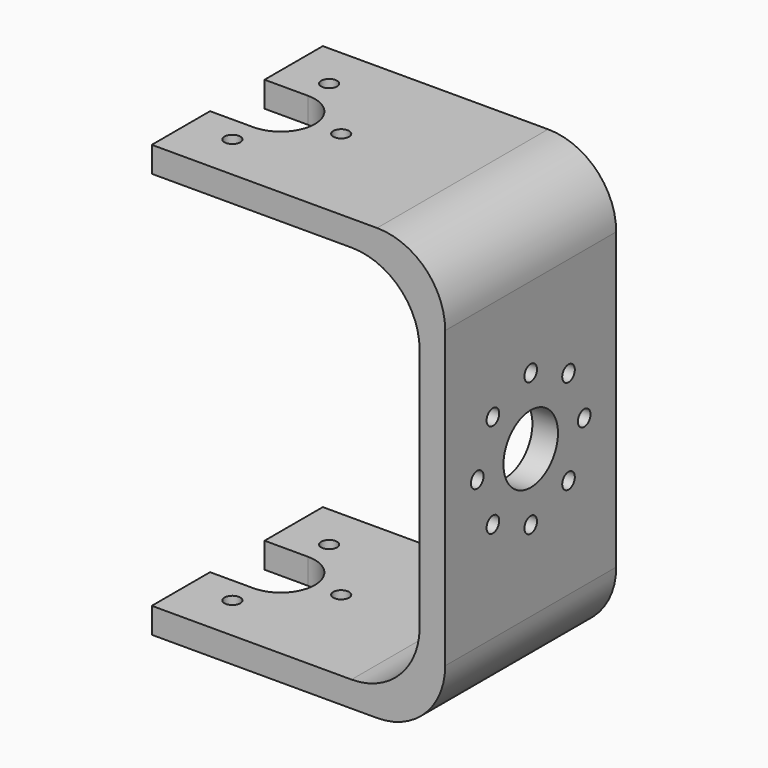
from build123d import *

# Parameters (mm, degrees)
F0_W      = 34.45
F0_H      = 25.1
F1_DEPTH  = 50.65
F2_T      = -5
F3_R      = 4
F3_R_2    = 0.925
F4_DEPTH  = 25
F5_W      = 31.45
F5_H      = 44.65
F6_DEPTH  = 25.101
F7_R      = 8
F8_R      = 8
F9_R      = 0.925
F10_DEPTH = 50.651


with BuildPart() as f1:
    # F0 (on Top) → F1 (new body)
    with BuildSketch(Plane.XY):
        with Locations((1.9014209259, 12.55)):
            Rectangle(F0_W, F0_H)
    extrude(amount=F1_DEPTH)

    # F2
    f2_openings = [f1.faces().sort_by_distance(p)[0] for p in [
        (-15.323579, 12.55, 25.325),
    ]]
    offset(amount=F2_T, openings=f2_openings)

    # F3 (on face) → F4 (cut)
    with BuildSketch(Plane.YZ.offset(19.1264209259)):
        with Locations((12.55, 25.325)):
            Circle(F3_R)
        with Locations((12.55, 17.475)):
            Circle(F3_R_2)
        with Locations((18.1007882323, 19.7742117677)):
            Circle(F3_R_2)
        with Locations((20.4, 25.325)):
            Circle(F3_R_2)
        with Locations((18.1007882323, 30.8757882323)):
            Circle(F3_R_2)
        with Locations((12.55, 33.175)):
            Circle(F3_R_2)
        with Locations((6.9992117677, 30.8757882323)):
            Circle(F3_R_2)
        with Locations((4.7, 25.325)):
            Circle(F3_R_2)
        with Locations((6.9992117677, 19.7742117677)):
            Circle(F3_R_2)
    extrude(amount=-F4_DEPTH, mode=Mode.SUBTRACT)

    # F5 (on face) → F6 (cut, through all)
    with BuildSketch(Plane(origin=(0, 25.1, 0), x_dir=(-1, 0, 0), z_dir=(0, 1, 0))):
        with Locations((-0.4014209259, 25.325)):
            Rectangle(F5_W, F5_H)
    extrude(amount=-F6_DEPTH, mode=Mode.SUBTRACT)

    # F7
    f7_edges = [f1.edges().sort_by_distance(p)[0] for p in [
        (16.126421, 12.55, 47.65),
        (16.126421, 12.55, 3),
    ]]
    fillet(f7_edges, radius=F7_R)

    # F8
    f8_edges = [f1.edges().sort_by_distance(p)[0] for p in [
        (19.126421, 12.55, 50.65),
        (19.126421, 12.55, 0),
    ]]
    fillet(f8_edges, radius=F8_R)

    # F9 (on face) → F10 (cut, through all)
    with BuildSketch(Plane.XY.offset(50.65)):
        with Locations((-10.2235790741, 19.65)):
            Circle(F9_R)
        with Locations((-10.2235790741, 5.45)):
            Circle(F9_R)
        with BuildLine():
            Line((-4.0485790741, 12.55), (-2.1985790741, 12.55))
            ThreePointArc((-2.1985790741, 12.55), (-3.1235790741, 13.475), (-4.0485790741, 12.55))
        make_face()
        with BuildLine():
            ThreePointArc((-4.0485790741, 12.55), (-3.1235790741, 11.625), (-2.1985790741, 12.55))
            Line((-2.1985790741, 12.55), (-4.0485790741, 12.55))
        make_face()
        with BuildLine():
            ThreePointArc((-10.2235790741, 16.55), (-13.0520061988, 15.3784271247), (-14.2235790741, 12.55))
            Line((-14.2235790741, 12.55), (-6.2235790741, 12.55))
            ThreePointArc((-6.2235790741, 12.55), (-7.3951519493, 15.3784271247), (-10.2235790741, 16.55))
        make_face()
        with BuildLine():
            ThreePointArc((-14.2235790741, 12.55), (-13.0520061988, 9.7215728753), (-10.2235790741, 8.55))
            ThreePointArc((-10.2235790741, 8.55), (-7.3951519493, 9.7215728753), (-6.2235790741, 12.55))
            Line((-6.2235790741, 12.55), (-14.2235790741, 12.55))
        make_face()
        with BuildLine():
            Line((-15.3235790741, 16.55), (-15.3235790741, 12.55))
            Line((-15.3235790741, 12.55), (-14.2235790741, 12.55))
            ThreePointArc((-14.2235790741, 12.55), (-13.0520061988, 15.3784271247), (-10.2235790741, 16.55))
            Line((-10.2235790741, 16.55), (-15.3235790741, 16.55))
        make_face()
        with BuildLine():
            Line((-15.3235790741, 12.55), (-15.3235790741, 8.55))
            Line((-15.3235790741, 8.55), (-10.2235790741, 8.55))
            ThreePointArc((-10.2235790741, 8.55), (-13.0520061988, 9.7215728753), (-14.2235790741, 12.55))
            Line((-14.2235790741, 12.55), (-15.3235790741, 12.55))
        make_face()
    extrude(amount=-F10_DEPTH, mode=Mode.SUBTRACT)


solid = f1.part
